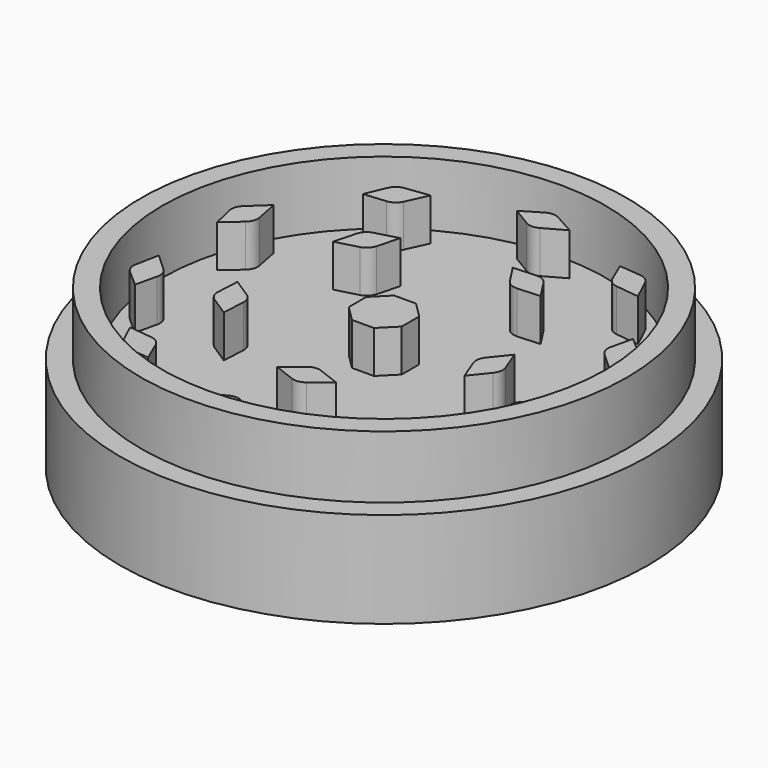
from build123d import *

# Parameters (mm, degrees)
F3_DEPTH = 7.62
F4_DEPTH = 7.62
F5_SIZE2 = 1.27
F5_SIZE  = 1.27


with BuildPart() as f1:
    # F0 (on Front) → F1 (revolve)
    with BuildSketch(Plane.XZ):
        Polygon((0, 2.54), (0, 0), (29.21, 0), (29.21, -8.89), (31.75, -8.89), (31.75, 2.627364982), (29.21, 2.627364982), (29.21, 10.16), (26.67, 10.16), (26.67, 2.54), align=None)
    revolve(axis=Axis((0, 0, 16.0585250768), (0, 0, 1)))

    # F2 (on Top) → F3 (join)
    with BuildSketch(Plane.XY):
        Polygon((1.3151280605, 3.175), (-1.3151280605, 3.175), (-3.175, 1.3151280605), (-3.175, -1.3151280605), (-1.3151280605, -3.175), (1.3151280605, -3.175), (3.175, -1.3151280605), (3.175, 1.3151280605), align=None)
        with BuildLine():
            ThreePointArc((0.7695885521, 25.2009846814), (-0.0276534791, 25.3997591266), (-0.817487623, 25.1733343897))
            Line((-0.817487623, 25.1733343897), (-3.0792138768, 23.8146582472))
            Line((-3.0792138768, 23.8146582472), (-0.8036357163, 22.4508293919))
            ThreePointArc((-0.8036357163, 22.4508293919), (-0.0116477599, 22.2251830345), (0.786827008, 22.426675582))
            Line((0.786827008, 22.426675582), (3.2707861232, 23.8146582472))
            Line((3.2707861232, 23.8146582472), (0.7695885521, 25.2009846814))
        make_face()
        with BuildLine():
            Line((-12.5455127439, 18.6060469845), (-11.3517833474, 21.1889830838))
            Line((-11.3517833474, 21.1889830838), (-14.1901569216, 20.8403776835))
            ThreePointArc((-14.1901569216, 20.8403776835), (-14.951975961, 20.5325824793), (-15.457876085, 19.8851481576))
            Line((-15.457876085, 19.8851481576), (-16.4890412617, 17.4565467318))
            Line((-16.4890412617, 17.4565467318), (-13.8464213701, 17.6907372936))
            ThreePointArc((-13.8464213701, 17.6907372936), (-13.0730580529, 17.9737043965), (-12.5455127439, 18.6060469845))
        make_face()
        with BuildLine():
            Line((-21.085893034, 7.6785408353), (-21.6383574123, 10.4698365695))
            Line((-21.6383574123, 10.4698365695), (-23.729744757, 8.5194547489))
            ThreePointArc((-23.729744757, 8.5194547489), (-24.1651518247, 7.8226572017), (-24.1938812764, 7.0015112006))
            Line((-24.1938812764, 7.0015112006), (-23.6006153266, 4.430627691))
            Line((-23.6006153266, 4.430627691), (-21.600344683, 6.1733848352))
            ThreePointArc((-21.600344683, 6.1733848352), (-21.1410045066, 6.8568815828), (-21.085893034, 7.6785408353))
        make_face()
        with BuildLine():
            Line((-21.5721788682, -6.181906929), (-23.6598144064, -4.2484316577))
            Line((-23.6598144064, -4.2484316577), (-24.2053766396, -7.0556103342))
            ThreePointArc((-24.2053766396, -7.0556103342), (-24.1480610347, -7.8752572447), (-23.68864614, -8.5564650624))
            Line((-23.68864614, -8.5564650624), (-21.6975564921, -10.2876405362))
            Line((-21.6975564921, -10.2876405362), (-21.1036704958, -7.7019908046))
            ThreePointArc((-21.1036704958, -7.7019908046), (-21.133805795, -6.8790369387), (-21.5721788682, -6.181906929))
        make_face()
        with BuildLine():
            Line((-13.8186255861, -17.6810763618), (-16.6440264647, -17.3439433906))
            Line((-16.6440264647, -17.3439433906), (-15.4353773563, -19.935672081))
            ThreePointArc((-15.4353773563, -19.935672081), (-14.9072316919, -20.5650910937), (-14.1351533255, -20.8461624951))
            Line((-14.1351533255, -20.8461624951), (-11.5067685504, -21.0763797426))
            Line((-11.5067685504, -21.0763797426), (-12.5461114665, -18.6354677381))
            ThreePointArc((-12.5461114665, -18.6354677381), (-13.0542115814, -17.9873971595), (-13.8186255861, -17.6810763618))
        make_face()
        with BuildLine():
            Line((-0.786827008, -22.426675582), (-3.2707861232, -23.8146582472))
            Line((-3.2707861232, -23.8146582472), (-0.7695885521, -25.2009846814))
            ThreePointArc((-0.7695885521, -25.2009846814), (0.0276534791, -25.3997591266), (0.817487623, -25.1733343897))
            Line((0.817487623, -25.1733343897), (3.0792138768, -23.8146582472))
            Line((3.0792138768, -23.8146582472), (0.8036357163, -22.4508293919))
            ThreePointArc((0.8036357163, -22.4508293919), (0.0116477599, -22.2251830345), (-0.786827008, -22.426675582))
        make_face()
        with BuildLine():
            Line((12.5455127439, -18.6060469845), (11.3517833474, -21.1889830838))
            Line((11.3517833474, -21.1889830838), (14.1901569216, -20.8403776835))
            ThreePointArc((14.1901569216, -20.8403776835), (14.951975961, -20.5325824793), (15.457876085, -19.8851481576))
            Line((15.457876085, -19.8851481576), (16.4890412617, -17.4565467318))
            Line((16.4890412617, -17.4565467318), (13.8464213701, -17.6907372936))
            ThreePointArc((13.8464213701, -17.6907372936), (13.0730580529, -17.9737043965), (12.5455127439, -18.6060469845))
        make_face()
        with BuildLine():
            Line((21.085893034, -7.6785408353), (21.6383574123, -10.4698365695))
            Line((21.6383574123, -10.4698365695), (23.729744757, -8.5194547489))
            ThreePointArc((23.729744757, -8.5194547489), (24.1651518247, -7.8226572017), (24.1938812764, -7.0015112006))
            Line((24.1938812764, -7.0015112006), (23.6006153266, -4.430627691))
            Line((23.6006153266, -4.430627691), (21.600344683, -6.1733848352))
            ThreePointArc((21.600344683, -6.1733848352), (21.1410045066, -6.8568815828), (21.085893034, -7.6785408353))
        make_face()
        with BuildLine():
            Line((21.5721788682, 6.181906929), (23.6598144064, 4.2484316577))
            Line((23.6598144064, 4.2484316577), (24.2053766396, 7.0556103342))
            ThreePointArc((24.2053766396, 7.0556103342), (24.1480610347, 7.8752572447), (23.68864614, 8.5564650624))
            Line((23.68864614, 8.5564650624), (21.6975564921, 10.2876405362))
            Line((21.6975564921, 10.2876405362), (21.1036704958, 7.7019908046))
            ThreePointArc((21.1036704958, 7.7019908046), (21.133805795, 6.8790369387), (21.5721788682, 6.181906929))
        make_face()
        with BuildLine():
            Line((13.8186255861, 17.6810763618), (16.6440264647, 17.3439433906))
            Line((16.6440264647, 17.3439433906), (15.4353773563, 19.935672081))
            ThreePointArc((15.4353773563, 19.935672081), (14.9072316919, 20.5650910937), (14.1351533255, 20.8461624951))
            Line((14.1351533255, 20.8461624951), (11.5067685504, 21.0763797426))
            Line((11.5067685504, 21.0763797426), (12.5461114665, 18.6354677381))
            ThreePointArc((12.5461114665, 18.6354677381), (13.0542115814, 17.9873971595), (13.8186255861, 17.6810763618))
        make_face()
        with BuildLine():
            Line((-11.927435173, 10.8049031515), (-12.6390919528, 8.1489638888))
            Line((-12.6390919565, 8.1489638901), (-9.9831526938, 8.8606206699))
            ThreePointArc((-9.9831526938, 8.8606206699), (-9.2714959087, 9.2714959076), (-8.8606206755, 9.9831526953))
            Line((-8.8606206699, 9.9831526938), (-8.1489638914, 12.6390919517))
            Line((-8.1489638944, 12.6390919548), (-10.8049031524, 11.9274351763))
            ThreePointArc((-10.8049031511, 11.9274351713), (-11.516559939, 11.5165599379), (-11.9274351769, 10.8049031526))
        make_face()
        with BuildLine():
            Line((-12.2326247903, -5.3419871867), (-14.5386590897, -3.8444310034))
            Line((-14.5386590936, -3.8444310054), (-14.6825636438, -6.5902933823))
            ThreePointArc((-14.6825636386, -6.5902933825), (-14.5117121122, -7.3940866377), (-13.9618537201, -8.0047662509))
            Line((-13.961853718, -8.0047662476), (-11.6558194144, -9.5023224336))
            Line((-11.6558194167, -9.5023224367), (-11.5119148663, -6.7564600549))
            ThreePointArc((-11.5119148663, -6.7564600549), (-11.6827663979, -5.9526668011), (-12.2326247934, -5.3419871916))
        make_face()
        with BuildLine():
            Line((1.3004427779, -13.2846823426), (-0.8364215769, -15.0150809792))
            Line((-0.8364215762, -15.0150809835), (1.7305797786, -16.0004604823))
            ThreePointArc((1.7305797804, -16.0004604775), (2.5478286188, -16.0863567958), (3.2985350319, -15.7521207676))
            Line((3.2985350294, -15.7521207646), (5.435399388, -14.0217221248))
            Line((5.4353993902, -14.021722128), (2.8683980308, -13.0363426274))
            ThreePointArc((2.8683980308, -13.0363426274), (2.0511491922, -12.9504463144), (1.3004427815, -13.2846823471))
        make_face()
        with BuildLine():
            Line((13.0363426274, -2.8683980308), (14.0217221262, -5.4353993856))
            Line((14.0217221306, -5.4353993863), (15.7521207672, -3.2985350315))
            ThreePointArc((15.7521207631, -3.2985350282), (16.0863567961, -2.5478286172), (16.0004604829, -1.7305797784))
            Line((16.0004604792, -1.7305797798), (15.0150809786, 0.8364215797))
            Line((15.0150809823, 0.8364215808), (13.2846823426, -1.3004427779))
            ThreePointArc((13.2846823426, -1.3004427779), (12.9504463147, -2.0511491907), (13.0363426328, -2.8683980287))
        make_face()
        with BuildLine():
            Line((6.7564600549, 11.5119148663), (9.5023224318, 11.6558194165))
            Line((9.5023224337, 11.6558194204), (8.0047662504, 13.9618537198))
            ThreePointArc((8.0047662461, 13.961853717), (7.3940866364, 14.5117121129), (6.5902933822, 14.6825636444))
            Line((6.5902933824, 14.6825636404), (3.8444310006, 14.53865909))
            Line((3.8444310007, 14.5386590939), (5.3419871867, 12.2326247903))
            ThreePointArc((5.3419871867, 12.2326247903), (5.9526667997, 11.6827663986), (6.7564600546, 11.5119148721))
        make_face()
    extrude(amount=F3_DEPTH)

    # F2 (on Top) → F4 (join)
    with BuildSketch(Plane.XY):
        Polygon((1.3151280605, 3.175), (-1.3151280605, 3.175), (-3.175, 1.3151280605), (-3.175, -1.3151280605), (-1.3151280605, -3.175), (1.3151280605, -3.175), (3.175, -1.3151280605), (3.175, 1.3151280605), align=None)
        with BuildLine():
            ThreePointArc((0.7695885521, 25.2009846814), (-0.0276534791, 25.3997591266), (-0.817487623, 25.1733343897))
            Line((-0.817487623, 25.1733343897), (-3.0792138768, 23.8146582472))
            Line((-3.0792138768, 23.8146582472), (-0.8036357163, 22.4508293919))
            ThreePointArc((-0.8036357163, 22.4508293919), (-0.0116477599, 22.2251830345), (0.786827008, 22.426675582))
            Line((0.786827008, 22.426675582), (3.2707861232, 23.8146582472))
            Line((3.2707861232, 23.8146582472), (0.7695885521, 25.2009846814))
        make_face()
        with BuildLine():
            Line((-12.5455127439, 18.6060469845), (-11.3517833474, 21.1889830838))
            Line((-11.3517833474, 21.1889830838), (-14.1901569216, 20.8403776835))
            ThreePointArc((-14.1901569216, 20.8403776835), (-14.951975961, 20.5325824793), (-15.457876085, 19.8851481576))
            Line((-15.457876085, 19.8851481576), (-16.4890412617, 17.4565467318))
            Line((-16.4890412617, 17.4565467318), (-13.8464213701, 17.6907372936))
            ThreePointArc((-13.8464213701, 17.6907372936), (-13.0730580529, 17.9737043965), (-12.5455127439, 18.6060469845))
        make_face()
        with BuildLine():
            Line((-21.085893034, 7.6785408353), (-21.6383574123, 10.4698365695))
            Line((-21.6383574123, 10.4698365695), (-23.729744757, 8.5194547489))
            ThreePointArc((-23.729744757, 8.5194547489), (-24.1651518247, 7.8226572017), (-24.1938812764, 7.0015112006))
            Line((-24.1938812764, 7.0015112006), (-23.6006153266, 4.430627691))
            Line((-23.6006153266, 4.430627691), (-21.600344683, 6.1733848352))
            ThreePointArc((-21.600344683, 6.1733848352), (-21.1410045066, 6.8568815828), (-21.085893034, 7.6785408353))
        make_face()
        with BuildLine():
            Line((-21.5721788682, -6.181906929), (-23.6598144064, -4.2484316577))
            Line((-23.6598144064, -4.2484316577), (-24.2053766396, -7.0556103342))
            ThreePointArc((-24.2053766396, -7.0556103342), (-24.1480610347, -7.8752572447), (-23.68864614, -8.5564650624))
            Line((-23.68864614, -8.5564650624), (-21.6975564921, -10.2876405362))
            Line((-21.6975564921, -10.2876405362), (-21.1036704958, -7.7019908046))
            ThreePointArc((-21.1036704958, -7.7019908046), (-21.133805795, -6.8790369387), (-21.5721788682, -6.181906929))
        make_face()
        with BuildLine():
            Line((-13.8186255861, -17.6810763618), (-16.6440264647, -17.3439433906))
            Line((-16.6440264647, -17.3439433906), (-15.4353773563, -19.935672081))
            ThreePointArc((-15.4353773563, -19.935672081), (-14.9072316919, -20.5650910937), (-14.1351533255, -20.8461624951))
            Line((-14.1351533255, -20.8461624951), (-11.5067685504, -21.0763797426))
            Line((-11.5067685504, -21.0763797426), (-12.5461114665, -18.6354677381))
            ThreePointArc((-12.5461114665, -18.6354677381), (-13.0542115814, -17.9873971595), (-13.8186255861, -17.6810763618))
        make_face()
        with BuildLine():
            Line((-0.786827008, -22.426675582), (-3.2707861232, -23.8146582472))
            Line((-3.2707861232, -23.8146582472), (-0.7695885521, -25.2009846814))
            ThreePointArc((-0.7695885521, -25.2009846814), (0.0276534791, -25.3997591266), (0.817487623, -25.1733343897))
            Line((0.817487623, -25.1733343897), (3.0792138768, -23.8146582472))
            Line((3.0792138768, -23.8146582472), (0.8036357163, -22.4508293919))
            ThreePointArc((0.8036357163, -22.4508293919), (0.0116477599, -22.2251830345), (-0.786827008, -22.426675582))
        make_face()
        with BuildLine():
            Line((12.5455127439, -18.6060469845), (11.3517833474, -21.1889830838))
            Line((11.3517833474, -21.1889830838), (14.1901569216, -20.8403776835))
            ThreePointArc((14.1901569216, -20.8403776835), (14.951975961, -20.5325824793), (15.457876085, -19.8851481576))
            Line((15.457876085, -19.8851481576), (16.4890412617, -17.4565467318))
            Line((16.4890412617, -17.4565467318), (13.8464213701, -17.6907372936))
            ThreePointArc((13.8464213701, -17.6907372936), (13.0730580529, -17.9737043965), (12.5455127439, -18.6060469845))
        make_face()
        with BuildLine():
            Line((21.085893034, -7.6785408353), (21.6383574123, -10.4698365695))
            Line((21.6383574123, -10.4698365695), (23.729744757, -8.5194547489))
            ThreePointArc((23.729744757, -8.5194547489), (24.1651518247, -7.8226572017), (24.1938812764, -7.0015112006))
            Line((24.1938812764, -7.0015112006), (23.6006153266, -4.430627691))
            Line((23.6006153266, -4.430627691), (21.600344683, -6.1733848352))
            ThreePointArc((21.600344683, -6.1733848352), (21.1410045066, -6.8568815828), (21.085893034, -7.6785408353))
        make_face()
        with BuildLine():
            Line((21.5721788682, 6.181906929), (23.6598144064, 4.2484316577))
            Line((23.6598144064, 4.2484316577), (24.2053766396, 7.0556103342))
            ThreePointArc((24.2053766396, 7.0556103342), (24.1480610347, 7.8752572447), (23.68864614, 8.5564650624))
            Line((23.68864614, 8.5564650624), (21.6975564921, 10.2876405362))
            Line((21.6975564921, 10.2876405362), (21.1036704958, 7.7019908046))
            ThreePointArc((21.1036704958, 7.7019908046), (21.133805795, 6.8790369387), (21.5721788682, 6.181906929))
        make_face()
        with BuildLine():
            Line((13.8186255861, 17.6810763618), (16.6440264647, 17.3439433906))
            Line((16.6440264647, 17.3439433906), (15.4353773563, 19.935672081))
            ThreePointArc((15.4353773563, 19.935672081), (14.9072316919, 20.5650910937), (14.1351533255, 20.8461624951))
            Line((14.1351533255, 20.8461624951), (11.5067685504, 21.0763797426))
            Line((11.5067685504, 21.0763797426), (12.5461114665, 18.6354677381))
            ThreePointArc((12.5461114665, 18.6354677381), (13.0542115814, 17.9873971595), (13.8186255861, 17.6810763618))
        make_face()
        with BuildLine():
            Line((-11.927435173, 10.8049031515), (-12.6390919528, 8.1489638888))
            Line((-12.6390919565, 8.1489638901), (-9.9831526938, 8.8606206699))
            ThreePointArc((-9.9831526938, 8.8606206699), (-9.2714959087, 9.2714959076), (-8.8606206755, 9.9831526953))
            Line((-8.8606206699, 9.9831526938), (-8.1489638914, 12.6390919517))
            Line((-8.1489638944, 12.6390919548), (-10.8049031524, 11.9274351763))
            ThreePointArc((-10.8049031511, 11.9274351713), (-11.516559939, 11.5165599379), (-11.9274351769, 10.8049031526))
        make_face()
        with BuildLine():
            Line((-12.2326247903, -5.3419871867), (-14.5386590897, -3.8444310034))
            Line((-14.5386590936, -3.8444310054), (-14.6825636438, -6.5902933823))
            ThreePointArc((-14.6825636386, -6.5902933825), (-14.5117121122, -7.3940866377), (-13.9618537201, -8.0047662509))
            Line((-13.961853718, -8.0047662476), (-11.6558194144, -9.5023224336))
            Line((-11.6558194167, -9.5023224367), (-11.5119148663, -6.7564600549))
            ThreePointArc((-11.5119148663, -6.7564600549), (-11.6827663979, -5.9526668011), (-12.2326247934, -5.3419871916))
        make_face()
        with BuildLine():
            Line((1.3004427779, -13.2846823426), (-0.8364215769, -15.0150809792))
            Line((-0.8364215762, -15.0150809835), (1.7305797786, -16.0004604823))
            ThreePointArc((1.7305797804, -16.0004604775), (2.5478286188, -16.0863567958), (3.2985350319, -15.7521207676))
            Line((3.2985350294, -15.7521207646), (5.435399388, -14.0217221248))
            Line((5.4353993902, -14.021722128), (2.8683980308, -13.0363426274))
            ThreePointArc((2.8683980308, -13.0363426274), (2.0511491922, -12.9504463144), (1.3004427815, -13.2846823471))
        make_face()
        with BuildLine():
            Line((13.0363426274, -2.8683980308), (14.0217221262, -5.4353993856))
            Line((14.0217221306, -5.4353993863), (15.7521207672, -3.2985350315))
            ThreePointArc((15.7521207631, -3.2985350282), (16.0863567961, -2.5478286172), (16.0004604829, -1.7305797784))
            Line((16.0004604792, -1.7305797798), (15.0150809786, 0.8364215797))
            Line((15.0150809823, 0.8364215808), (13.2846823426, -1.3004427779))
            ThreePointArc((13.2846823426, -1.3004427779), (12.9504463147, -2.0511491907), (13.0363426328, -2.8683980287))
        make_face()
        with BuildLine():
            Line((6.7564600549, 11.5119148663), (9.5023224318, 11.6558194165))
            Line((9.5023224337, 11.6558194204), (8.0047662504, 13.9618537198))
            ThreePointArc((8.0047662461, 13.961853717), (7.3940866364, 14.5117121129), (6.5902933822, 14.6825636444))
            Line((6.5902933824, 14.6825636404), (3.8444310006, 14.53865909))
            Line((3.8444310007, 14.5386590939), (5.3419871867, 12.2326247903))
            ThreePointArc((5.3419871867, 12.2326247903), (5.9526667997, 11.6827663986), (6.7564600546, 11.5119148721))
        make_face()
    extrude(amount=F4_DEPTH)

    # F5
    f5_edges = [f1.edges().sort_by_distance(p)[0] for p in [
        (-29.21, 0, 0),
    ]]
    chamfer(f5_edges, length=F5_SIZE, length2=F5_SIZE2)


solid = f1.part
